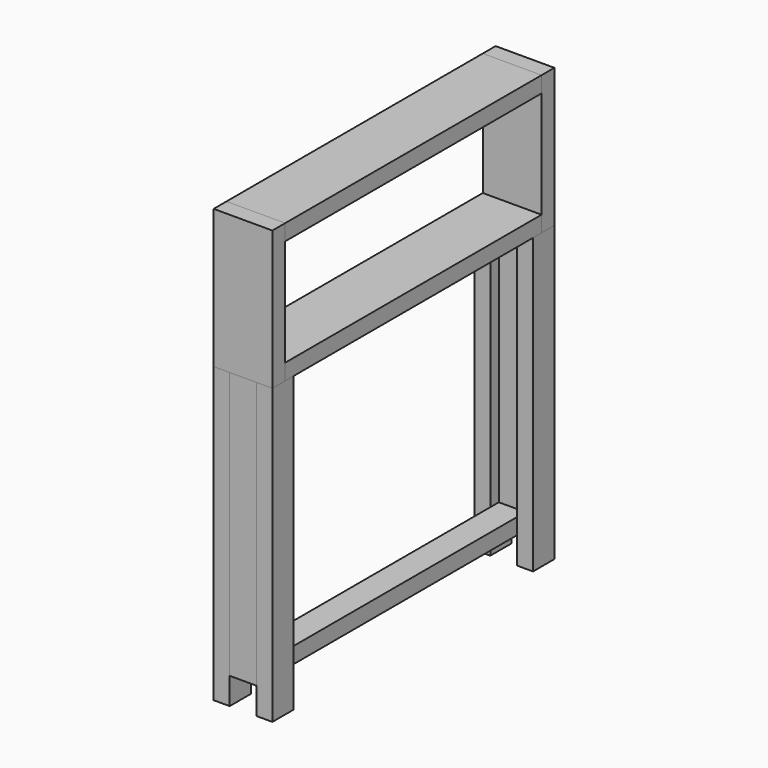
from build123d import *

# Parameters (mm, degrees)
F0_W      = 11
F0_H      = 26
F1_DEPTH  = 3
F2_W      = 11
F2_H      = 3
F3_DEPTH  = 60
F4_W      = 11
F4_H      = 3
F4_H_2    = 23
F5_DEPTH  = 3
F6_W      = 3
F6_H      = 2
F6_H_2    = 3
F7_DEPTH  = 55
F8_W      = 3
F8_H      = 50
F9_DEPTH  = 5
F10_W     = 3
F10_H     = 3
F10_H_2   = 2
F11_DEPTH = 55
F13_W     = 5
F13_H     = 3
F14_DEPTH = 60
F12_W     = 3
F12_H     = 50
F15_DEPTH = 5


with BuildPart() as f1:
    # F0 (on Front) → F1 (new body)
    with BuildSketch(Plane.XZ):
        Rectangle(F0_W, F0_H)
    extrude(amount=F1_DEPTH)


with BuildPart() as f3:
    # F2 (on face) → F3 (new body)
    with BuildSketch(Plane(origin=(0, 0, 0), x_dir=(-1, 0, 0), z_dir=(0, 1, 0))):
        with Locations((0, 11.5)):
            Rectangle(F2_W, F2_H)
    extrude(amount=F3_DEPTH)


with BuildPart() as f3b:
    # F2 (on face) → F3, piece 2 (new body)
    with BuildSketch(Plane(origin=(0, 0, 0), x_dir=(-1, 0, 0), z_dir=(0, 1, 0))):
        with Locations((0, -11.5)):
            Rectangle(F2_W, F2_H)
    extrude(amount=F3_DEPTH)


with BuildPart() as f5:
    # F4 (on face) → F5 (new body)
    with BuildSketch(Plane(origin=(0, 60, 0), x_dir=(-1, 0, 0), z_dir=(0, 1, 0))):
        with Locations((0, 11.5)):
            Rectangle(F4_W, F4_H)
        with Locations((0, -1.5)):
            Rectangle(F4_W, F4_H_2)
    extrude(amount=F5_DEPTH)


with BuildPart() as f7:
    # F6 (on face) → F7 (new body)
    with BuildSketch(Plane(origin=(0, 0, -13), x_dir=(1, 0, 0), z_dir=(0, 0, -1))):
        with Locations((-4, -1)):
            Rectangle(F6_W, F6_H)
        with Locations((-4, 1.5)):
            Rectangle(F6_W, F6_H_2)
    extrude(amount=F7_DEPTH)


with BuildPart() as f7b:
    # F6 (on face) → F7, piece 2 (new body)
    with BuildSketch(Plane(origin=(0, 0, -13), x_dir=(1, 0, 0), z_dir=(0, 0, -1))):
        with Locations((4, 1.5)):
            Rectangle(F6_W, F6_H_2)
        with Locations((4, -1)):
            Rectangle(F6_W, F6_H)
    extrude(amount=F7_DEPTH)


with BuildPart() as f9:
    # F8 (on face) → F9 (new body)
    with BuildSketch(Plane.YZ.offset(-2.5)):
        with Locations((-1.5, -38)):
            Rectangle(F8_W, F8_H)
    extrude(amount=F9_DEPTH)


with BuildPart() as f11:
    # F10 (on face) → F11 (new body)
    with BuildSketch(Plane(origin=(0, 0, -13), x_dir=(1, 0, 0), z_dir=(0, 0, -1))):
        with Locations((4, -61.5)):
            Rectangle(F10_W, F10_H)
        with Locations((4, -59)):
            Rectangle(F10_W, F10_H_2)
    extrude(amount=F11_DEPTH)


with BuildPart() as f11b:
    # F10 (on face) → F11, piece 2 (new body)
    with BuildSketch(Plane(origin=(0, 0, -13), x_dir=(1, 0, 0), z_dir=(0, 0, -1))):
        with Locations((-4, -59)):
            Rectangle(F10_W, F10_H_2)
        with Locations((-4, -61.5)):
            Rectangle(F10_W, F10_H)
    extrude(amount=F11_DEPTH)


with BuildPart() as f14:
    # F13 (on face) → F14 (new body)
    with BuildSketch(Plane(origin=(0, 0, 0), x_dir=(-1, 0, 0), z_dir=(0, 1, 0))):
        with Locations((0, -61.5)):
            Rectangle(F13_W, F13_H)
    extrude(amount=F14_DEPTH)


with BuildPart() as f15:
    # F12 (on face) → F15 (new body)
    with BuildSketch(Plane(origin=(2.5, 0, 0), x_dir=(0, -1, 0), z_dir=(-1, 0, 0))):
        with Locations((-61.5, -38)):
            Rectangle(F12_W, F12_H)
    extrude(amount=F15_DEPTH)


solid = Compound([f1.part, f3.part, f3b.part, f5.part, f7.part, f7b.part, f9.part, f11.part, f11b.part, f14.part, f15.part])
